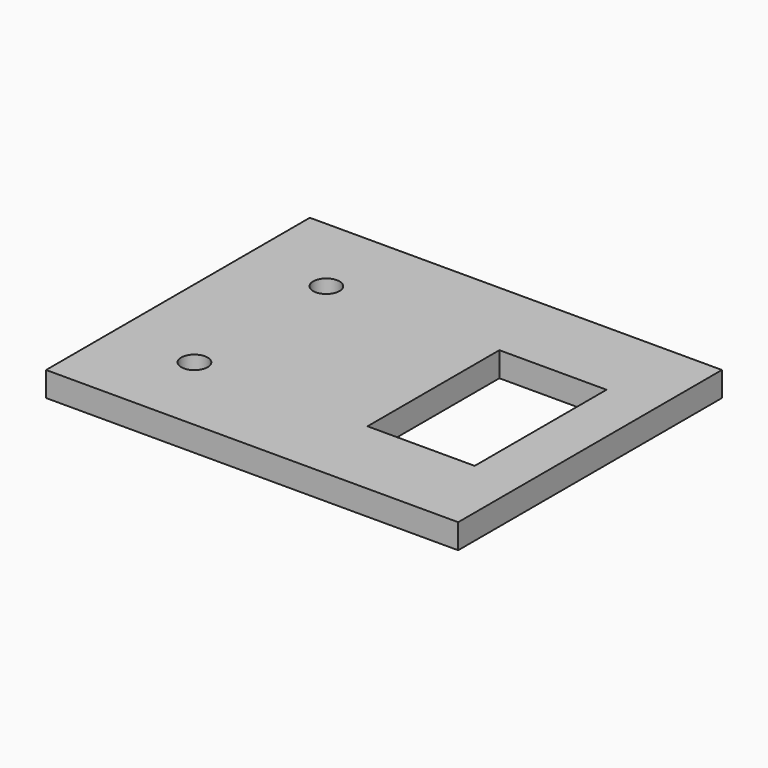
from build123d import *

# Parameters (mm, degrees)
F0_R     = 1.6
F0_W     = 13
F0_H     = 20
F1_DEPTH = 3


with BuildPart() as f1:
    # F0 (on Top) → F1 (new body)
    with BuildSketch(Plane.XY):
        Polygon((-16.158696, 28.084782), (-26.158696, 28.084782), (-26.158696, 18.084782), (-26.158696, -11.915218), (23.841304, -11.915218), (23.841304, 28.084782), align=None)
        with Locations((-16.158696, -1.915218)):
            Circle(F0_R, mode=Mode.SUBTRACT)
        with Locations((-16.158696, 18.084782)):
            Circle(F0_R, mode=Mode.SUBTRACT)
        with Locations((11.341304, 8.084782)):
            Rectangle(F0_W, F0_H, mode=Mode.SUBTRACT)
    extrude(amount=F1_DEPTH)


solid = f1.part
